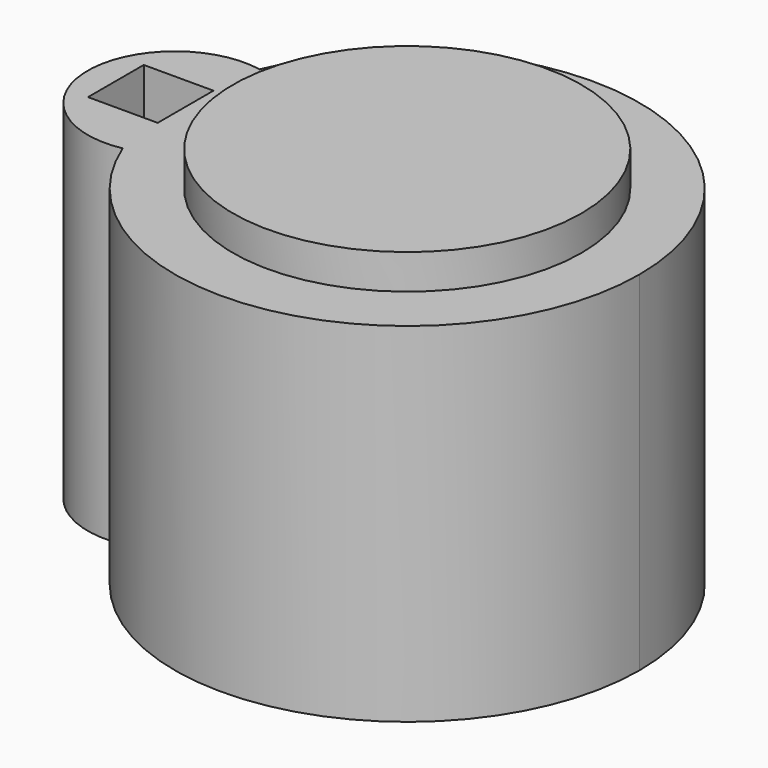
from build123d import *

# Parameters (mm, degrees)
F0_R     = 15
F1_DEPTH = 30
F3_R     = 18
F4_DEPTH = 25
F5_R     = 15
F6_DEPTH = 3
F2_W     = 6
F2_H     = 6
F7_DEPTH = 35


with BuildPart() as f1:
    # F0 (on Top) → F1 (new body)
    with BuildSketch(Plane.XY):
        with BuildLine():
            ThreePointArc((-18.59375, -7.366985), (3.75, -19.645292), (20, 0))
            ThreePointArc((20, 0), (3.75, 19.645292), (-18.59375, 7.366985))
            ThreePointArc((-18.59375, 7.366985), (-20, 0), (-18.59375, -7.366985))
        make_face()
        Circle(F0_R, mode=Mode.SUBTRACT)
        with BuildLine():
            ThreePointArc((-18.59375, -7.366985), (-20, 0), (-18.59375, 7.366985))
            ThreePointArc((-18.59375, 7.366985), (-27.5, 0), (-18.59375, -7.366985))
        make_face()
        Circle(F0_R)
    extrude(amount=F1_DEPTH)

    # F3 (on face) → F4 (cut)
    with BuildSketch(Plane(origin=(0, 0, 0), x_dir=(1, 0, 0), z_dir=(0, 0, -1))):
        Circle(F3_R)
        Circle(F3_R)
    extrude(amount=-F4_DEPTH, mode=Mode.SUBTRACT)

    # F5 (on face) → F6 (join)
    with BuildSketch(Plane.XY.offset(30)):
        Circle(F5_R)
    extrude(amount=F6_DEPTH)

    # F2 (on face) → F7 (cut)
    with BuildSketch(Plane.XY.offset(30)):
        with Locations((-22.077309, 0)):
            Rectangle(F2_W, F2_H)
    extrude(amount=-F7_DEPTH, mode=Mode.SUBTRACT)


solid = f1.part
